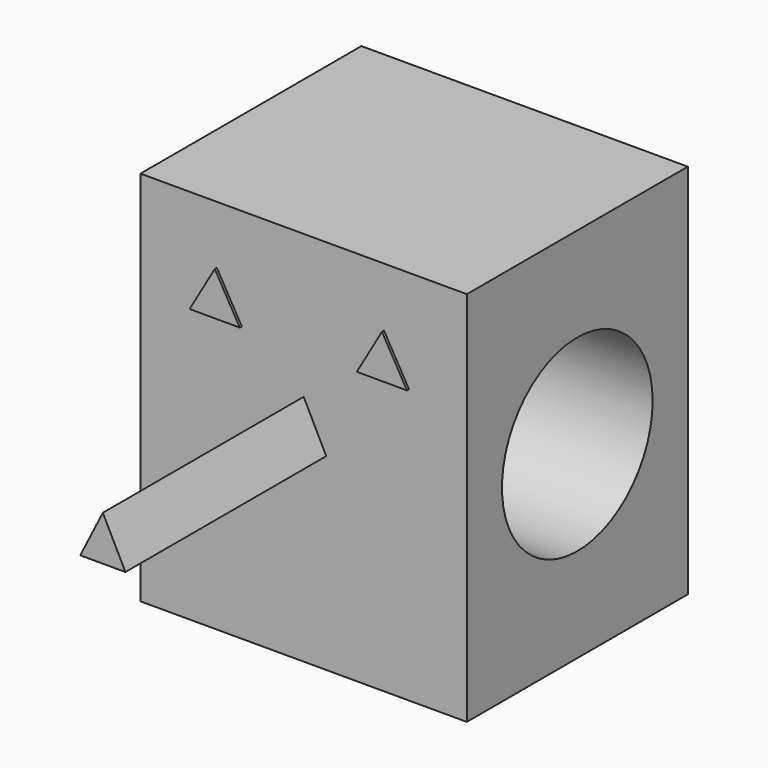
from build123d import *

# Parameters (mm, degrees)
F0_W     = 130
F0_H     = 150
F1_DEPTH = 110
F2_R     = 37.5
F3_DEPTH = 130
F5_DEPTH = 100
F6_DEPTH = 1


with BuildPart() as f1:
    # F0 (on Front) → F1 (new body)
    with BuildSketch(Plane.XZ):
        Rectangle(F0_W, F0_H)
    extrude(amount=-F1_DEPTH)

    # F2 (on face) → F3 (cut)
    with BuildSketch(Plane.YZ.offset(65)):
        with Locations((55, 0)):
            Circle(F2_R)
    extrude(amount=-F3_DEPTH, mode=Mode.SUBTRACT)

    # F4 (on Front) → F5 (join)
    with BuildSketch(Plane.XZ):
        Polygon((-9, 0), (9, 0), (0, 17.860571), align=None)
    extrude(amount=F5_DEPTH)

    # F4 (on Front) → F6 (join)
    with BuildSketch(Plane.XZ):
        Polygon((-44.622627, 34.545667), (-24.622664, 34.507253), (-34.589379, 51.846936), align=None)
        Polygon((21.962458, 34.184783), (41.962421, 34.14637), (31.995706, 51.486053), align=None)
    extrude(amount=F6_DEPTH)


solid = f1.part
